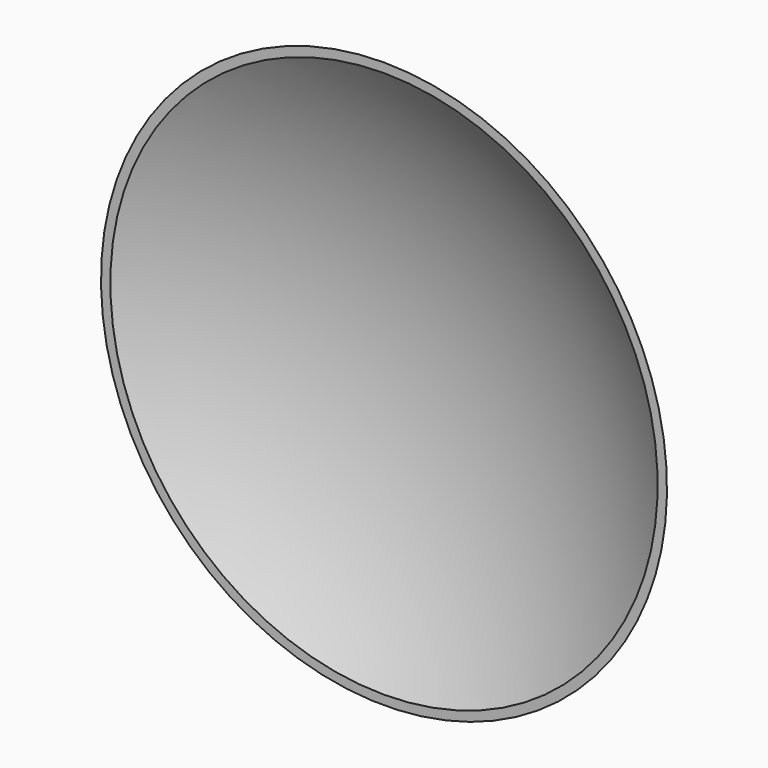
from build123d import *

# Parameters (mm, degrees)
BOX_W           = 60
BOX_H           = 40
BOX_DEPTH       = 60
SPHERE001_ANGLE = 180
SPHERE_ANGLE    = 180


with BuildPart() as cube:
    # Box → Box (new body)
    with BuildSketch(Plane(origin=(-30, -15, -30), x_dir=(1, 0, 0), z_dir=(0, 0, 1))):
        with Locations((30, 20)):
            Rectangle(BOX_W, BOX_H)
    extrude(amount=BOX_DEPTH)


with BuildPart() as inner:
    # Sphere001 → Sphere001 (revolve)
    with BuildSketch(Plane.XZ):
        with BuildLine():
            ThreePointArc((0, -29.7), (29.7, 0), (0, 29.7))
            Line((0, 29.7), (0, -29.7))
        make_face()
    revolve(axis=Axis((0, 0, 0), (0, 0, 1)), revolution_arc=SPHERE001_ANGLE)


with BuildPart() as cut001:
    # Sphere → Sphere (revolve)
    with BuildSketch(Plane.XZ):
        with BuildLine():
            ThreePointArc((0, -30), (30, 0), (0, 30))
            Line((0, 30), (0, -30))
        make_face()
    revolve(axis=Axis((0, 0, 0), (0, 0, 1)), revolution_arc=SPHERE_ANGLE)

    # Cut: cut Inner
    add(inner.part, mode=Mode.SUBTRACT)

    # Cut001: cut Cube
    add(cube.part, mode=Mode.SUBTRACT)


solid = cut001.part
